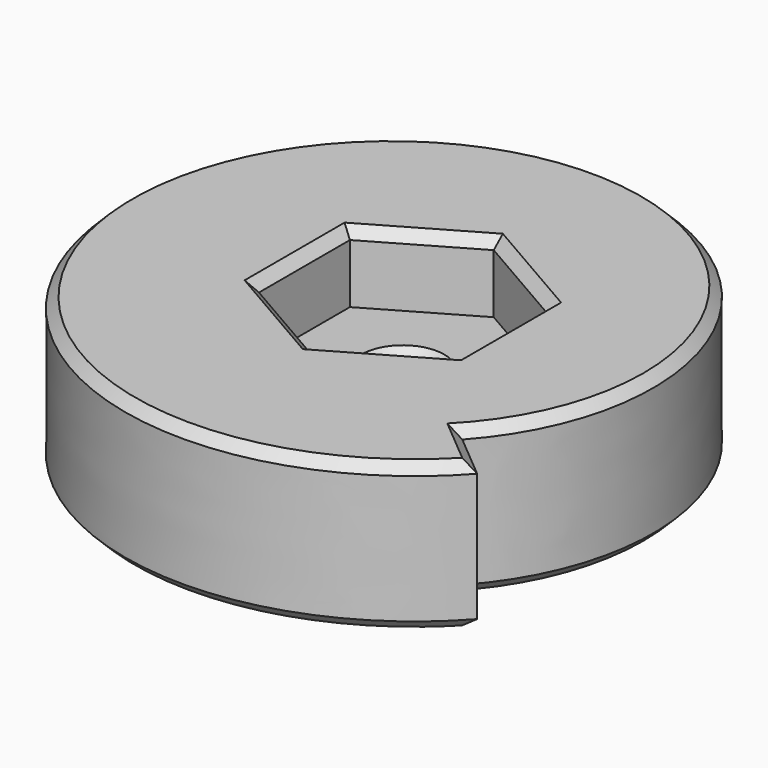
from build123d import *

# Parameters (mm, degrees)
PAD011_DEPTH    = 15
POCKET009_DEPTH = 7
SKETCH024_R     = 3.2
POCKET010_DEPTH = 8.001
CHAMFER002_SIZE = 1


with BuildPart() as part:
    # Sketch022 → Pad011 (new body)
    with BuildSketch(Plane(origin=(0, 12, 0), x_dir=(1, 0, 0), z_dir=(0, 0, 1))):
        with BuildLine():
            add(Edge.make_bspline(
                [(18.385067, -15.426903), (25.636949, -7.451184), (29.167143, 4.188206), (26.974214, 17.612295), (18.090552, 29.751556), (3.35831, 36.969816), (-14.204536, 36.253542), (-29.939339, 26.647227), (-39.094212, 10.198881), (-39.001928, -8.479394), (-30.172825, -24.273207), (-15.683623, -33.497423), (0.297085, -34.860416), (13.998556, -29.322146), (22.981333, -19.283628)],
                knots=[0, 0, 0, 0, 0, 0, 0, 0, 0, 0, 0, 0, 0, 0, 0, 6.362265, 6.362265, 6.362265, 6.362265, 6.362265, 6.362265, 6.362265, 6.362265, 6.362265, 6.362265, 6.362265, 6.362265, 6.362265, 6.362265, 6.362265], degree=14))
            Line((22.981333, -19.283628), (18.385067, -15.426903))
        make_face()
    extrude(amount=-PAD011_DEPTH)

    # Sketch023 (on Face3 of Pad011) → Pocket009 (cut)
    with BuildSketch(Plane(origin=(0, 12, 0), x_dir=(1, 0, 0), z_dir=(0, 0, 1))):
        Polygon((0, -11.547005), (10, -5.773503), (10, 5.773503), (0, 11.547005), (-10, 5.773503), (-10, -5.773503), align=None)
    extrude(amount=-POCKET009_DEPTH, mode=Mode.SUBTRACT)

    # Sketch024 (on Face11 of Pocket009) → Pocket010 (cut, through all)
    with BuildSketch(Plane(origin=(0, 12, -7), x_dir=(1, 0, 0), z_dir=(0, 0, 1))):
        Circle(SKETCH024_R)
    extrude(amount=-POCKET010_DEPTH, mode=Mode.SUBTRACT)

    # Chamfer002
    chamfer002_edges = [part.edges().sort_by_distance(p)[0] for p in [
        (-23.516179, 25.600665, 0),
        (20.6832, -5.355266, 0),
        (5, 3.339746, 0),
        (10, 12, 0),
        (5, 20.660254, 0),
        (-5, 20.660254, 0),
        (-10, 12, 0),
        (-5, 3.339746, 0),
        (-3.2, 12, -7),
        (-23.516179, 25.600665, -15),
        (20.6832, -5.355266, -15),
        (-3.2, 12, -15),
    ]]
    chamfer(chamfer002_edges, length=CHAMFER002_SIZE)


solid = part.part
